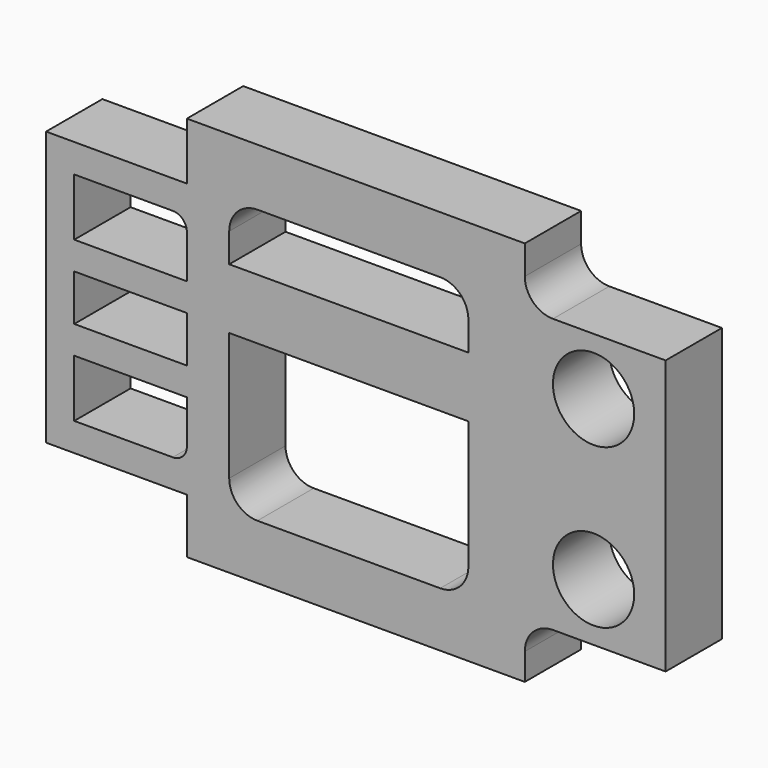
from build123d import *

# Parameters (mm, degrees)
F0_W     = 40
F0_H     = 16.429857
F0_R     = 14.425633
F1_DEPTH = 25


with BuildPart() as f1:
    # F0 (on Front) → F1 (new body)
    with BuildSketch(Plane.XZ):
        with BuildLine():
            Line((-2.529519, 54.480218), (-52.529519, 54.480218))
            Line((-52.529519, 54.480218), (-52.529519, -42.776029))
            Line((-52.529519, -42.776029), (-2.529519, -42.776029))
            Line((-2.529519, -42.776029), (-2.529519, -62.283013))
            Line((-2.529519, -62.283013), (117.470481, -62.283013))
            Line((117.470481, -62.283013), (117.470481, -52.776029))
            ThreePointArc((117.470481, -52.776029), (120.399413, -45.704961), (127.470481, -42.776029))
            Line((127.470481, -42.776029), (167.470481, -42.776029))
            Line((167.470481, -42.776029), (167.470481, 54.480218))
            Line((167.470481, 54.480218), (127.470481, 54.480218))
            ThreePointArc((127.470481, 54.480218), (120.399413, 57.40915), (117.470481, 64.480218))
            Line((117.470481, 64.480218), (117.470481, 74.800561))
            Line((117.470481, 74.800561), (-2.529519, 74.800561))
            Line((-2.529519, 74.800561), (-2.529519, 54.480218))
        make_face()
        with BuildLine():
            Line((-7.529519, -32.718264), (-42.529519, -32.718264))
            Line((-42.529519, -32.718264), (-42.529519, -12.32258))
            Line((-42.529519, -12.32258), (-2.529519, -12.32258))
            Line((-2.529519, -12.32258), (-2.529519, -27.718264))
            ThreePointArc((-2.529519, -27.718264), (-3.993985, -31.253797), (-7.529519, -32.718264))
        make_face(mode=Mode.SUBTRACT)
        with Locations((-22.529519, 5.806916)):
            Rectangle(F0_W, F0_H, mode=Mode.SUBTRACT)
        with BuildLine():
            Line((87.435027, -42.776029), (22.504957, -42.776029))
            ThreePointArc((22.504957, -42.776029), (15.433889, -39.847097), (12.504957, -32.776029))
            Line((12.504957, -32.776029), (12.504957, 12.669074))
            Line((12.504957, 12.669074), (52.470481, 12.669074))
            Line((52.470481, 12.669074), (97.435027, 12.669074))
            Line((97.435027, 12.669074), (97.435027, -32.776029))
            ThreePointArc((97.435027, -32.776029), (94.506095, -39.847097), (87.435027, -42.776029))
        make_face(mode=Mode.SUBTRACT)
        with Locations((141.896114, -22.304697)):
            Circle(F0_R, mode=Mode.SUBTRACT)
        with BuildLine():
            ThreePointArc((-7.529519, 44.332098), (-3.993985, 42.867632), (-2.529519, 39.332098))
            Line((-2.529519, 39.332098), (-2.529519, 23.936415))
            Line((-2.529519, 23.936415), (-42.529519, 23.936415))
            Line((-42.529519, 23.936415), (-42.529519, 44.332098))
            Line((-42.529519, 44.332098), (-7.529519, 44.332098))
        make_face(mode=Mode.SUBTRACT)
        with BuildLine():
            ThreePointArc((12.504957, 44.480218), (15.433889, 51.551286), (22.504957, 54.480218))
            Line((22.504957, 54.480218), (87.435027, 54.480218))
            ThreePointArc((87.435027, 54.480218), (94.506095, 51.551286), (97.435027, 44.480218))
            Line((97.435027, 44.480218), (97.435027, 34.150277))
            Line((97.435027, 34.150277), (12.504957, 34.150277))
            Line((12.504957, 34.150277), (12.504957, 44.480218))
        make_face(mode=Mode.SUBTRACT)
        with Locations((141.896114, 34.150277)):
            Circle(F0_R, mode=Mode.SUBTRACT)
    extrude(amount=F1_DEPTH)


solid = f1.part
